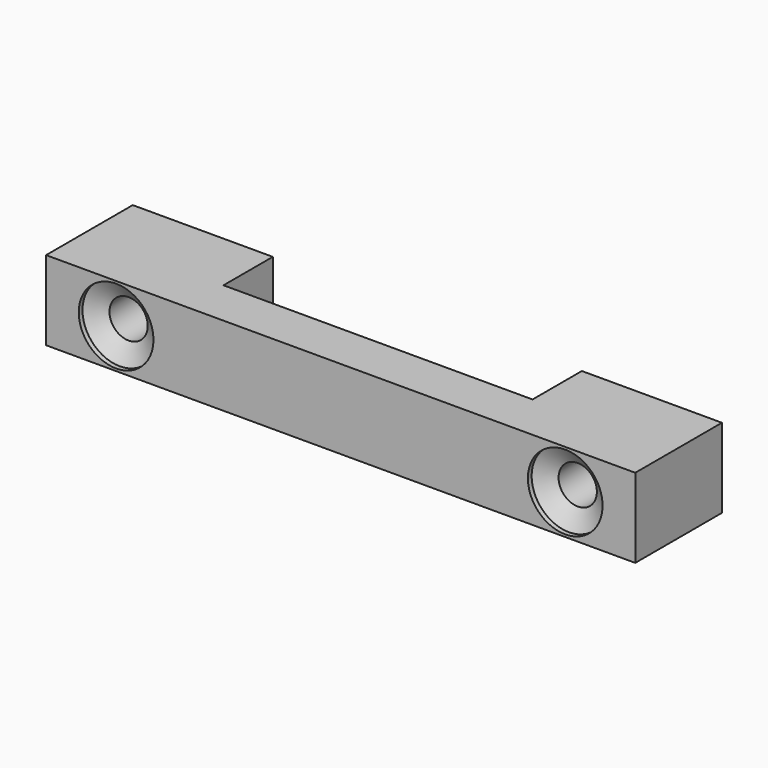
from build123d import *

# Parameters (mm, degrees)
F1_DEPTH = 8.5
F3_D     = 4.1
F3_DEPTH = 12
F3_TIP   = 1.231764269
F4_D     = 8
F4_DEPTH = 0.5
F4_TIP   = 2.4034424761


with BuildPart() as f1:
    # F0 (on Top) → F1 (new body)
    with BuildSketch(Plane.XY):
        Polygon((-21.8481650084, 5.5145221063), (-21.8481650084, 0.5145221063), (41.2518349916, 0.5145221063), (41.2518349916, 5.5145221063), (41.2518349916, 12.1145221063), (26.2518349916, 12.1145221063), (26.2518349916, 5.5145221063), (-6.8481650084, 5.5145221063), (-6.8481650084, 12.1145221063), (-21.8481650084, 12.1145221063), align=None)
    extrude(amount=F1_DEPTH)

    # F3
    with Locations(Plane.XZ.offset(-0.5145221063)):
        with Locations((-14.3481650084, 4.25), (33.7518349916, 4.25)):
            Hole(F3_D / 2, depth=F3_DEPTH)
            with Locations((0, 0, -(F3_DEPTH + F3_TIP / 2))):  # 118° drill point
                Cone(0, F3_D / 2, F3_TIP, mode=Mode.SUBTRACT)

    # F4
    with Locations(Plane.XZ.offset(-0.5145221063)):
        with Locations((-14.3481650084, 4.25), (33.7518349916, 4.25)):
            Hole(F4_D / 2, depth=F4_DEPTH)
            with Locations((0, 0, -(F4_DEPTH + F4_TIP / 2))):  # 118° drill point
                Cone(0, F4_D / 2, F4_TIP, mode=Mode.SUBTRACT)


solid = f1.part
